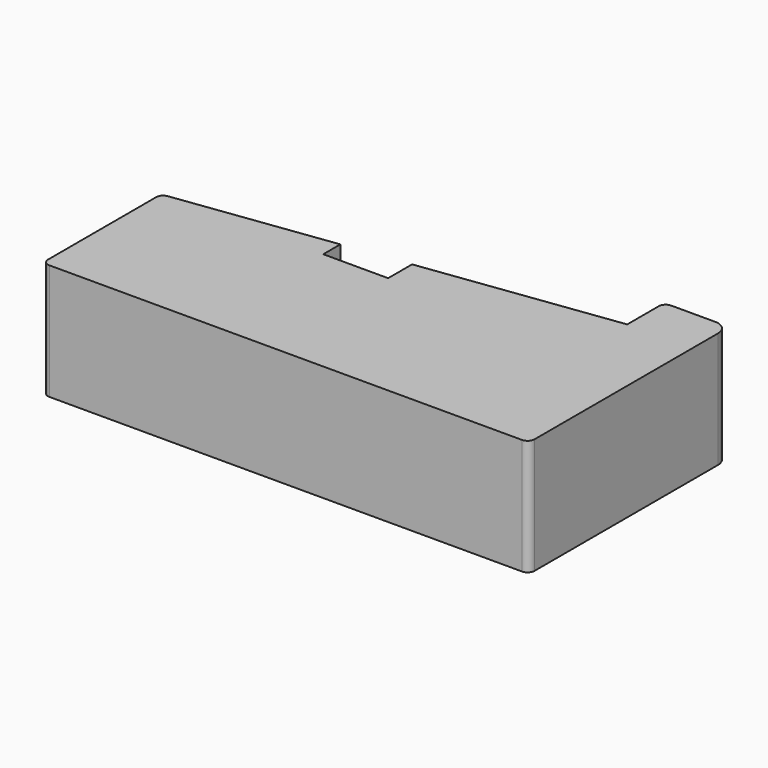
from build123d import *

# Parameters (mm, degrees)
F1_DEPTH = 25


with BuildPart() as f1:
    # F0 (on Top) → F1 (new body)
    with BuildSketch(Plane.XY):
        with BuildLine():
            ThreePointArc((-48.719171, -45.648687), (-48.279832, -46.709347), (-47.219171, -47.148687))
            Line((-47.219171, -47.148687), (54.780829, -47.148687))
            ThreePointArc((54.780829, -47.148687), (55.841489, -46.709347), (56.280829, -45.648687))
            Line((56.280829, -45.648687), (56.280829, 3.851313))
            ThreePointArc((56.280829, 3.851313), (55.402149, 5.972634), (53.280829, 6.851313))
            Line((53.280829, 6.851313), (43.780829, 6.851313))
            ThreePointArc((43.780829, 6.851313), (42.720168, 6.411974), (42.280829, 5.351313))
            Line((42.280829, 5.351313), (42.280829, -3.148687))
            Line((42.280829, -3.148687), (0.280829, -8.687148))
            Line((0.280829, -8.687148), (0.280829, -15.148687))
            Line((0.280829, -15.148687), (-13.719171, -15.148687))
            Line((-13.719171, -15.148687), (-13.719171, -10.533302))
            Line((-13.719171, -10.533302), (-47.415276, -14.976744))
            ThreePointArc((-47.415276, -14.976744), (-48.347036, -15.474971), (-48.719171, -16.46387))
            Line((-48.719171, -16.46387), (-48.719171, -45.648687))
        make_face()
    extrude(amount=F1_DEPTH)


solid = f1.part
